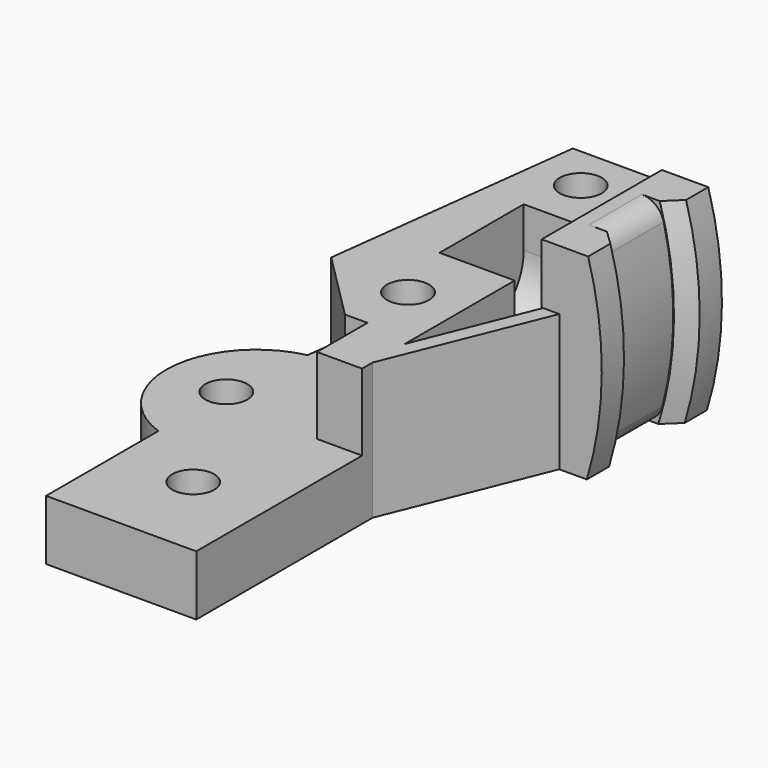
from build123d import *

# Parameters (mm, degrees)
CYLINDER084_R           = 1.4
CYLINDER084_DEPTH       = 50
CYLINDER086_R           = 1.4
CYLINDER086_DEPTH       = 50
CYLINDER085_R           = 1.4
CYLINDER085_DEPTH       = 50
CYLINDER083_R           = 1.4
CYLINDER083_DEPTH       = 50
BOX024_W                = 1
BOX024_H                = 13.5
BOX024_DEPTH            = 9.1
BOX024_PLACEMENT_ANGLE  = -22
BOX025_W                = 110
BOX025_H                = 15
BOX025_DEPTH            = 53
BOX026_W                = 110
BOX026_H                = 15
BOX026_DEPTH            = 53
BOX020_W                = 110
BOX020_H                = 15
BOX020_DEPTH            = 53
CYLINDER043_R           = 23
CYLINDER043_DEPTH       = 2.8
CYLINDER043_ROLL_ANGLE  = 90
CYLINDER039_R           = 22
CYLINDER039_DEPTH       = 10
CYLINDER039_ROLL_ANGLE  = 90
CYLINDER042_R           = 23
CYLINDER042_DEPTH       = 2.8
CYLINDER042_ROLL_ANGLE  = 90
CHAMFER004_SIZE         = 0.95
FILLET_R                = 1.5
BOX023_W                = 3
BOX023_H                = 6
BOX023_DEPTH            = 6
CYLINDER040_R           = 3.5
CYLINDER040_DEPTH       = 8
CYLINDER040_PITCH_ANGLE = 90
BOX022_W                = 8
BOX022_H                = 7
BOX022_DEPTH            = 10
BOX018_W                = 66
BOX018_H                = 50
BOX018_DEPTH            = 25
BOX018_PLACEMENT_ANGLE  = -7
BOX008_W                = 10
BOX008_H                = 22
BOX008_DEPTH            = 6
CHAMFER001_SIZE         = 5.5
BOX009_W                = 10
BOX009_H                = 40
BOX009_DEPTH            = 4
CYLINDER025_R           = 6
CYLINDER025_DEPTH       = 4


with BuildPart() as m3_studding021:
    # Cylinder084 → Cylinder084 (new body)
    with BuildSketch(Plane(origin=(41, -9, 27), x_dir=(1, 0, 0), z_dir=(0, 0, 1))):
        Circle(CYLINDER084_R)
    extrude(amount=CYLINDER084_DEPTH)


with BuildPart() as m3_studding023:
    # Cylinder086 → Cylinder086 (new body)
    with BuildSketch(Plane(origin=(42.5, 7, 27), x_dir=(1, 0, 0), z_dir=(0, 0, 1))):
        Circle(CYLINDER086_R)
    extrude(amount=CYLINDER086_DEPTH)


with BuildPart() as m3_studding022:
    # Cylinder085 → Cylinder085 (new body)
    with BuildSketch(Plane(origin=(42, 22, 27), x_dir=(1, 0, 0), z_dir=(0, 0, 1))):
        Circle(CYLINDER085_R)
    extrude(amount=CYLINDER085_DEPTH)


with BuildPart() as m3_tap003:
    # Cylinder083 → Cylinder083 (new body)
    with BuildSketch(Plane(origin=(36, 0, 27), x_dir=(1, 0, 0), z_dir=(0, 0, 1))):
        Circle(CYLINDER083_R)
    extrude(amount=CYLINDER083_DEPTH)

    # Fusion049: union m3-studding021, m3-studding023, m3-studding022
    add(m3_studding021.part)
    add(m3_studding023.part)
    add(m3_studding022.part)


with BuildPart() as cube024:
    # Box024 → Box024 (new body)
    with BuildSketch(Plane.XY):
        with Locations((0.5, 6.75)):
            Rectangle(BOX024_W, BOX024_H)
    extrude(amount=BOX024_DEPTH)


with BuildPart() as cube024_1:
    # Box024 placement: moved
    add(cube024.part.moved(Location((44.78403, -0.65857, 51.6))).rotate(Axis((44.78403, -0.65857, 51.6), (0, 0, 1)), BOX024_PLACEMENT_ANGLE))


with BuildPart() as cube025:
    # Box025 → Box025 (new body)
    with BuildSketch(Plane(origin=(-45, 8, 64.7), x_dir=(1, 0, 0), z_dir=(0, 0, 1))):
        with Locations((55, 7.5)):
            Rectangle(BOX025_W, BOX025_H)
    extrude(amount=BOX025_DEPTH)


with BuildPart() as cube026:
    # Box026 → Box026 (new body)
    with BuildSketch(Plane(origin=(-42, 8, -1.4), x_dir=(1, 0, 0), z_dir=(0, 0, 1))):
        with Locations((55, 7.5)):
            Rectangle(BOX026_W, BOX026_H)
    extrude(amount=BOX026_DEPTH)


with BuildPart() as bump_chop001:
    # Box020 → Box020 (new body)
    with BuildSketch(Plane(origin=(-61, 8, 30.5), x_dir=(1, 0, 0), z_dir=(0, 0, 1))):
        with Locations((55, 7.5)):
            Rectangle(BOX020_W, BOX020_H)
    extrude(amount=BOX020_DEPTH)

    # Fusion023: union Cube025, Cube026
    add(cube025.part)
    add(cube026.part)


with BuildPart() as filament007:
    # Cylinder043 → Cylinder043 (new body)
    with BuildSketch(Plane.XY):
        Circle(CYLINDER043_R)
    extrude(amount=CYLINDER043_DEPTH)


with BuildPart() as filament007_1:
    # Cylinder043 roll: moved
    add(filament007.part.rotate(Axis((0, 0, 0), (1, 0, 0)), CYLINDER043_ROLL_ANGLE))


with BuildPart() as filament007_2:
    # Cylinder043 placement: moved
    add(filament007_1.part.moved(Location((30, 13.8, 58.3))))


with BuildPart() as filament005:
    # Cylinder039 → Cylinder039 (new body)
    with BuildSketch(Plane.XY):
        Circle(CYLINDER039_R)
    extrude(amount=CYLINDER039_DEPTH)


with BuildPart() as filament005_1:
    # Cylinder039 roll: moved
    add(filament005.part.rotate(Axis((0, 0, 0), (1, 0, 0)), CYLINDER039_ROLL_ANGLE))


with BuildPart() as filament005_2:
    # Cylinder039 placement: moved
    add(filament005_1.part.moved(Location((30, 21, 58.3))))


with BuildPart() as fillet_body:
    # Cylinder042 → Cylinder042 (new body)
    with BuildSketch(Plane.XY):
        Circle(CYLINDER042_R)
    extrude(amount=CYLINDER042_DEPTH)


with BuildPart() as fillet_body_1:
    # Cylinder042 roll: moved
    add(fillet_body.part.rotate(Axis((0, 0, 0), (1, 0, 0)), CYLINDER042_ROLL_ANGLE))


with BuildPart() as fillet_body_2:
    # Cylinder042 placement: moved
    add(fillet_body_1.part.moved(Location((30, 21, 58.3))))

    # Fusion024: union filament007, filament005
    add(filament007_2.part)
    add(filament005_2.part)

    # Cut015: cut bump-chop001
    add(bump_chop001.part, mode=Mode.SUBTRACT)

    # Chamfer004
    chamfer004_edges = [fillet_body_2.edges().sort_by_distance(p)[0] for p in [
        (52.749258, 18.2, 54.913076),
        (52.771775, 18.2, 61.532071),
        (52.749258, 13.8, 54.913076),
        (52.771775, 13.8, 61.532071),
    ]]
    chamfer(chamfer004_edges, length=CHAMFER004_SIZE)


with BuildPart() as fillet_body_3:
    # Chamfer004 placement: moved
    add(fillet_body_2.part.moved(Location((0, -1, 0))))

    # Fillet
    fillet_edges = [fillet_body_3.edges().sort_by_distance(p)[0] for p in [
        (50.954952, 15, 51.6),
        (51.048515, 15, 64.7),
    ]]
    fillet(fillet_edges, radius=FILLET_R)


with BuildPart() as cube023:
    # Box023 → Box023 (new body)
    with BuildSketch(Plane(origin=(43, -1.2, 54.7), x_dir=(1, 0, 0), z_dir=(0, 0, 1))):
        with Locations((1.5, 3)):
            Rectangle(BOX023_W, BOX023_H)
    extrude(amount=BOX023_DEPTH)


with BuildPart() as cylinder040:
    # Cylinder040 → Cylinder040 (new body)
    with BuildSketch(Plane.XY):
        Circle(CYLINDER040_R)
    extrude(amount=CYLINDER040_DEPTH)


with BuildPart() as cylinder040_1:
    # Cylinder040 pitch: moved
    add(cylinder040.part.rotate(Axis((0, 0, 0), (0, 1, 0)), CYLINDER040_PITCH_ANGLE))


with BuildPart() as cylinder040_2:
    # Cylinder040 placement: moved
    add(cylinder040_1.part.moved(Location((41, 16, 58))))


with BuildPart() as spring_cavity:
    # Box022 → Box022 (new body)
    with BuildSketch(Plane(origin=(41, 12.5, 58), x_dir=(1, 0, 0), z_dir=(0, 0, 1))):
        with Locations((4, 3.5)):
            Rectangle(BOX022_W, BOX022_H)
    extrude(amount=BOX022_DEPTH)

    # Fusion020: union Cylinder040
    add(cylinder040_2.part)


with BuildPart() as spring_cavity_1:
    # Fusion020 placement: moved
    add(spring_cavity.part.moved(Location((0, -1, 0))))


with BuildPart() as cube018:
    # Box018 → Box018 (new body)
    with BuildSketch(Plane.XY):
        with Locations((33, 25)):
            Rectangle(BOX018_W, BOX018_H)
    extrude(amount=BOX018_DEPTH)


with BuildPart() as cube018_1:
    # Box018 placement: moved
    add(cube018.part.moved(Location((-31.823564, -10.815, 45))).rotate(Axis((-31.823564, -10.815, 45), (0, 0, 1)), BOX018_PLACEMENT_ANGLE))


with BuildPart() as chamfer001:
    # Box008 → Box008 (new body)
    with BuildSketch(Plane(origin=(36, 3, 54.7), x_dir=(1, 0, 0), z_dir=(0, 0, 1))):
        with Locations((5, 11)):
            Rectangle(BOX008_W, BOX008_H)
    extrude(amount=BOX008_DEPTH)

    # Chamfer001
    chamfer001_edges = [chamfer001.edges().sort_by_distance(p)[0] for p in [
        (36, 3, 57.7),
    ]]
    chamfer(chamfer001_edges, length=CHAMFER001_SIZE)


with BuildPart() as cut007:
    # Box009 → Box009 (new body)
    with BuildSketch(Plane(origin=(36, -15, 51.6), x_dir=(1, 0, 0), z_dir=(0, 0, 1))):
        with Locations((5, 20)):
            Rectangle(BOX009_W, BOX009_H)
    extrude(amount=BOX009_DEPTH)

    # Fusion012: union Chamfer001
    add(chamfer001.part)

    # Cut007: cut Cube018
    add(cube018_1.part, mode=Mode.SUBTRACT)


with BuildPart() as wedge_clamp:
    # Cylinder025 → Cylinder025 (new body)
    with BuildSketch(Plane(origin=(38, 0, 51.6), x_dir=(1, 0, 0), z_dir=(0, 0, 1))):
        Circle(CYLINDER025_R)
    extrude(amount=CYLINDER025_DEPTH)

    # Fusion014: union Cut007
    add(cut007.part)

    # Cut013: cut spring-cavity
    add(spring_cavity_1.part, mode=Mode.SUBTRACT)

    # Fusion021: union Cube023
    add(cube023.part)

    # Fusion025: union Cube024, Fillet body
    add(cube024_1.part)
    add(fillet_body_3.part)

    # Cut036: cut M3-tap003
    add(m3_tap003.part, mode=Mode.SUBTRACT)


with BuildPart() as wedge_clamp_1:
    # Cut036 placement: moved
    add(wedge_clamp.part.moved(Location((-0.5, 0, 0))))


solid = wedge_clamp_1.part
